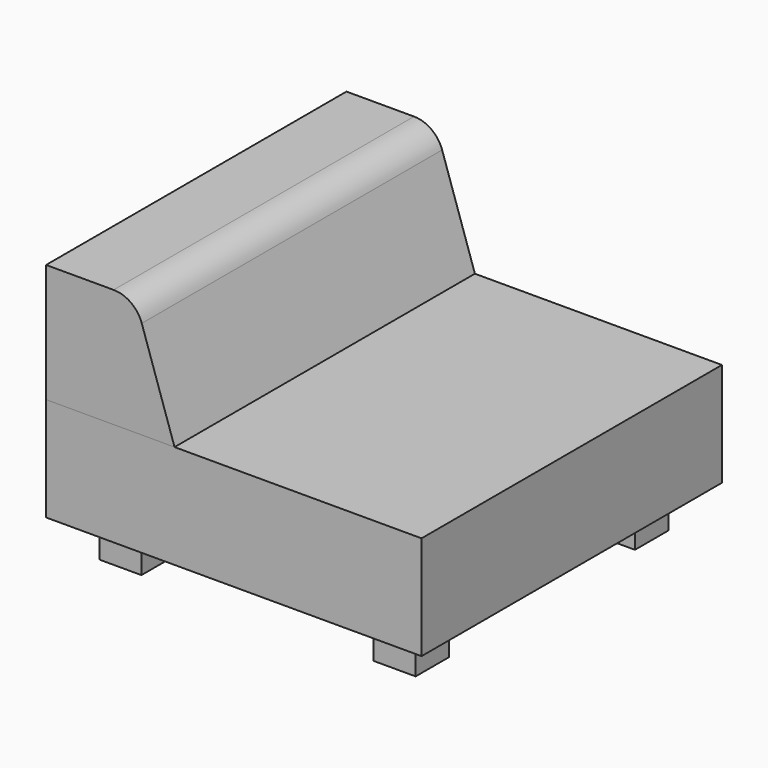
from build123d import *

# Parameters (mm, degrees)
F0_W     = 965.2
F0_H     = 965.2
F1_DEPTH = 266.7
F2_W     = 107.95
F2_H     = 107.95
F3_DEPTH = 101.6
F5_DEPTH = 965.2


with BuildPart() as f1:
    # F0 (on Top) → F1 (new body)
    with BuildSketch(Plane.XY):
        Rectangle(F0_W, F0_H)
    extrude(amount=F1_DEPTH)

    # F2 (on face) → F3 (join)
    with BuildSketch(Plane(origin=(0, 0, 0), x_dir=(1, 0, 0), z_dir=(0, 0, -1))):
        with Locations((-352.425, 352.425)):
            Rectangle(F2_W, F2_H)
        with Locations((352.425, 352.425)):
            Rectangle(F2_W, F2_H)
        with Locations((352.425, -352.425)):
            Rectangle(F2_W, F2_H)
        with Locations((-352.425, -352.425)):
            Rectangle(F2_W, F2_H)
    extrude(amount=F3_DEPTH)


with BuildPart() as f5:
    # F4 (on face) → F5 (new body, through all)
    with BuildSketch(Plane.XZ.offset(482.6)):
        with BuildLine():
            Line((-482.6, 571.5), (-482.6, 266.7))
            Line((-482.6, 266.7), (-152.4, 266.7))
            Line((-152.4, 266.7), (-236.632185, 519.396556))
            ThreePointArc((-236.632185, 519.396556), (-264.366929, 557.116655), (-308.921853, 571.5))
            Line((-308.921853, 571.5), (-482.6, 571.5))
        make_face()
    extrude(amount=-F5_DEPTH)


solid = Compound([f1.part, f5.part])
